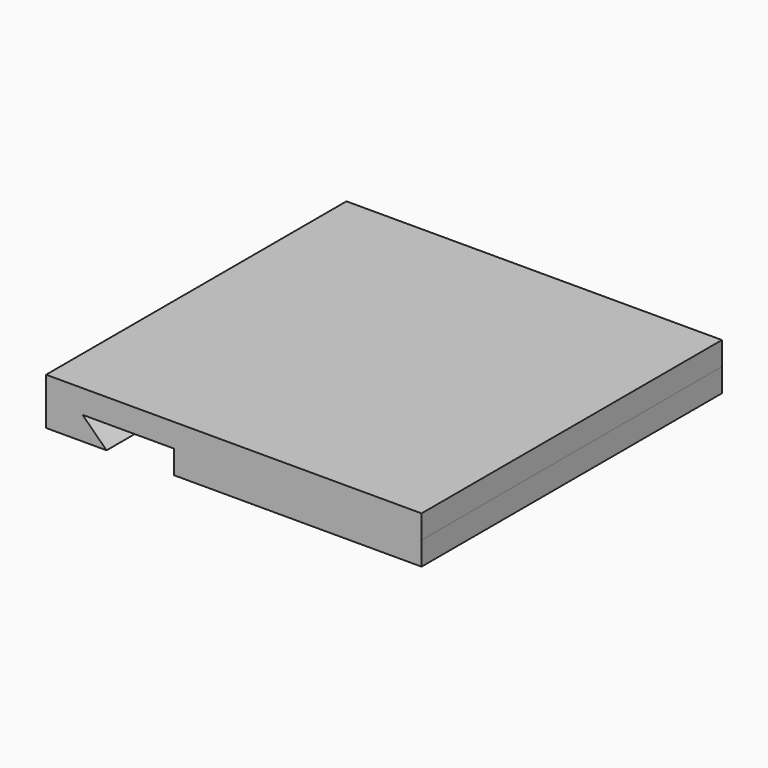
from build123d import *

# Parameters (mm, degrees)
F0_W     = 200.770747
F0_H     = 19.05
F1_DEPTH = 304.8


with BuildPart() as f1:
    # F0 (on Front) → F1 (new body)
    with BuildSketch(Plane.XZ):
        Polygon((-119.097248, -19.97675), (-148.705989, -19.97675), (-148.705989, -39.02675), (-99.606508, -39.02675), align=None)
        Polygon((156.094011, -0.92675), (-148.705989, -0.92675), (-148.705989, -19.97675), (-119.097248, -19.97675), (-44.676736, -19.97675), (156.094011, -19.97675), align=None)
        with Locations((55.708637, -29.50175)):
            Rectangle(F0_W, F0_H)
    extrude(amount=F1_DEPTH)


solid = f1.part
